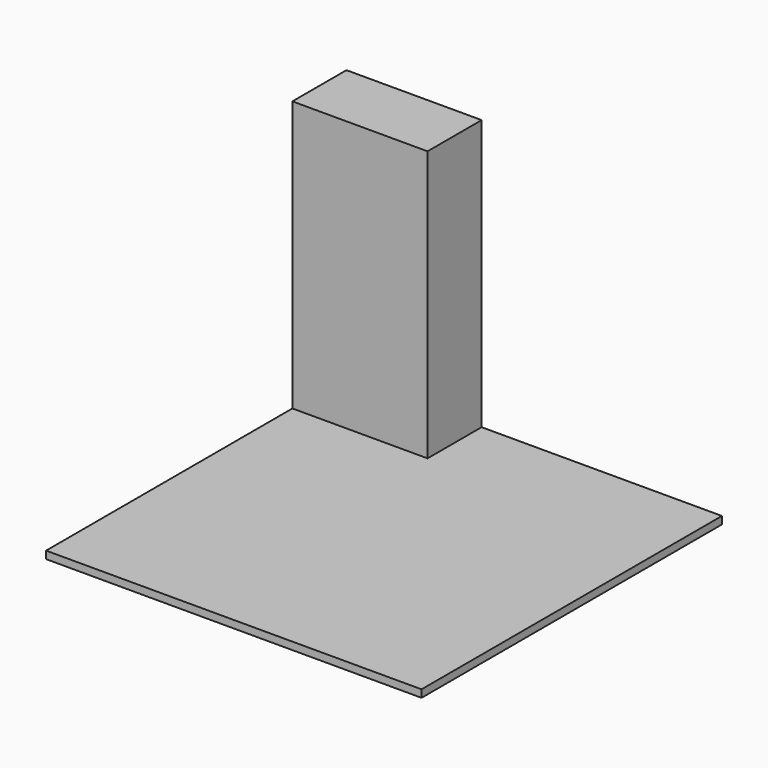
from build123d import *

# Parameters (mm, degrees)
F0_W     = 2500
F0_H     = 2500
F1_DEPTH = 50
F2_W     = 900
F2_H     = 450
F3_DEPTH = 1800


with BuildPart() as f1:
    # F0 (on Top) → F1 (new body)
    with BuildSketch(Plane.XY):
        Rectangle(F0_W, F0_H)
    extrude(amount=-F1_DEPTH)

    # F2 (on face) → F3 (join)
    with BuildSketch(Plane.XY):
        with Locations((-800, 1025)):
            Rectangle(F2_W, F2_H)
    extrude(amount=F3_DEPTH)


solid = f1.part
